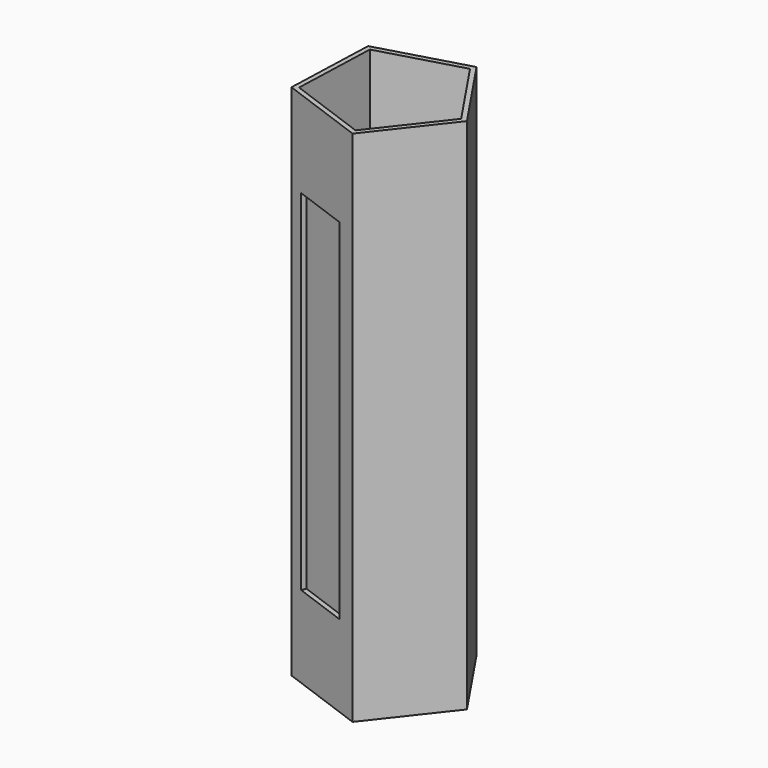
from build123d import *

# Parameters (mm, degrees)
F1_DEPTH = 430
F2_T     = -4
F3_W     = 47.923155129
F3_H     = 290.2228236198
F4_DEPTH = 12.7


with BuildPart() as f1:
    # F0 (on Top) → F1 (new body)
    with BuildSketch(Plane.XY):
        Polygon((17.8408334003, -62.3160021047), (64.7791605856, -2.2890628103), (22.1948896043, 60.9012834855), (-51.0619644336, 39.9281259628), (-53.7529191566, -36.2243445334), align=None)
    extrude(amount=F1_DEPTH)

    # F2
    f2_openings = [f1.faces().sort_by_distance(p)[0] for p in [
        (0, 0, 430),
    ]]
    offset(amount=F2_T, openings=f2_openings)

    # F3 (on face) → F4 (cut)
    with BuildSketch(Plane(origin=(-17.9560428781, -49.270173319, 0), x_dir=(0.9395505585, -0.3424102043, 0), z_dir=(-0.3424102043, -0.9395505585, 0))):
        with Locations((-2.0299293101, 212.9202485085)):
            Rectangle(F3_W, F3_H)
    extrude(amount=-F4_DEPTH, mode=Mode.SUBTRACT)


solid = f1.part
